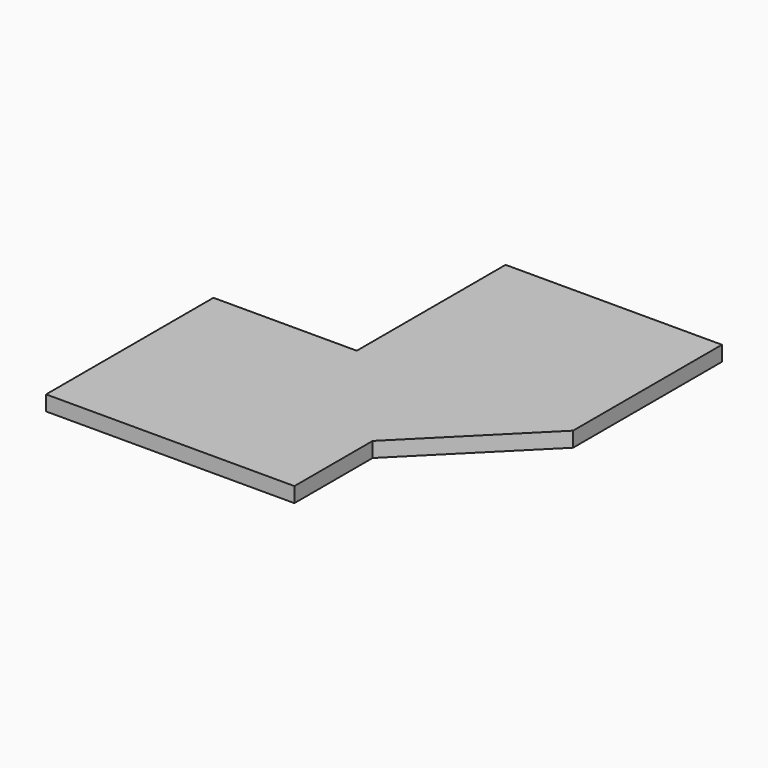
from build123d import *

# Parameters (mm, degrees)
PAD_DEPTH = 2


with BuildPart() as part:
    # Sketch → Pad (new body)
    with BuildSketch(Plane.XY):
        Polygon((-27.584467, 6.318722), (-27.584467, -21.481278), (5.415533, -21.481278), (5.415533, -8.481278), (20.215533, 6.318722), (20.215533, 31.040794), (-8.535118, 31.040794), (-8.535118, 6.318722), align=None)
    extrude(amount=PAD_DEPTH)


solid = part.part
